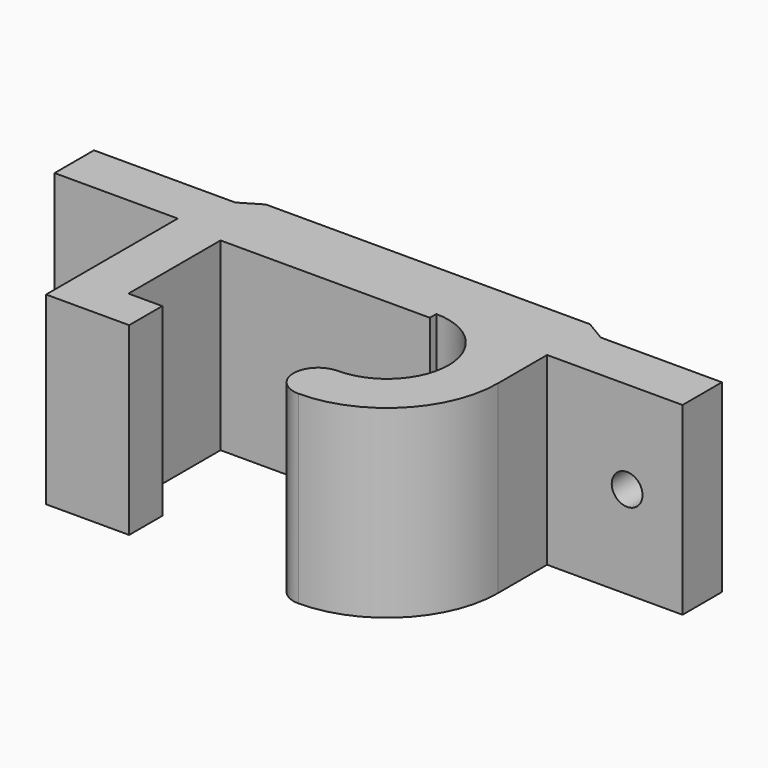
from build123d import *

# Parameters (mm, degrees)
F1_DEPTH = 47.625
F2_R     = 7.9375
F3_DEPTH = 114.301


with BuildPart() as f1:
    # F0 (on Top) → F1 (new body, symmetric)
    with BuildSketch(Plane.XY):
        with BuildLine():
            ThreePointArc((0, 31.75), (31.75, 0), (0, -31.75))
            ThreePointArc((0, -31.75), (-12.7, -44.45), (0, -57.15))
            ThreePointArc((0, -57.15), (40.4111525448, -40.4111525448), (57.15, 0))
            Line((57.15, 0), (57.15, 31.75))
            Line((57.15, 31.75), (127, 31.75))
            Line((127, 31.75), (127, 57.15))
            Line((127, 57.15), (64.5130766445, 57.15))
            Line((64.5130766445, 57.15), (53.8438755383, 63.5))
            Line((53.8438755383, 63.5), (-113.2848898665, 63.5))
            Line((-113.2848898665, 63.5), (-124.0183680439, 57.15))
            Line((-124.0183680439, 57.15), (-196.85, 57.15))
            Line((-196.85, 57.15), (-196.85, 31.75))
            Line((-196.85, 31.75), (-133.35, 31.75))
            Line((-133.35, 31.75), (-133.35, -53.1049028658))
            Line((-133.35, -53.1049028658), (-90.5046517968, -53.1049028658))
            Line((-90.5046517968, -53.1049028658), (-90.5046517968, -31.75))
            Line((-90.5046517968, -31.75), (-107.95, -31.75))
            Line((-107.95, -31.75), (-107.95, 27.6119898381))
            Line((-107.95, 27.6119898381), (0, 27.6119898381))
            Line((0, 27.6119898381), (0, 31.75))
        make_face()
    extrude(amount=F1_DEPTH, both=True)

    # F2 (on face) → F3 (cut, through all)
    with BuildSketch(Plane(origin=(0, 57.15, 0), x_dir=(-1, 0, 0), z_dir=(0, 1, 0))):
        with Locations((-98.425, 0)):
            Circle(F2_R)
        with Locations((168.275, 0)):
            Circle(F2_R)
    extrude(amount=-F3_DEPTH, mode=Mode.SUBTRACT)


solid = f1.part
